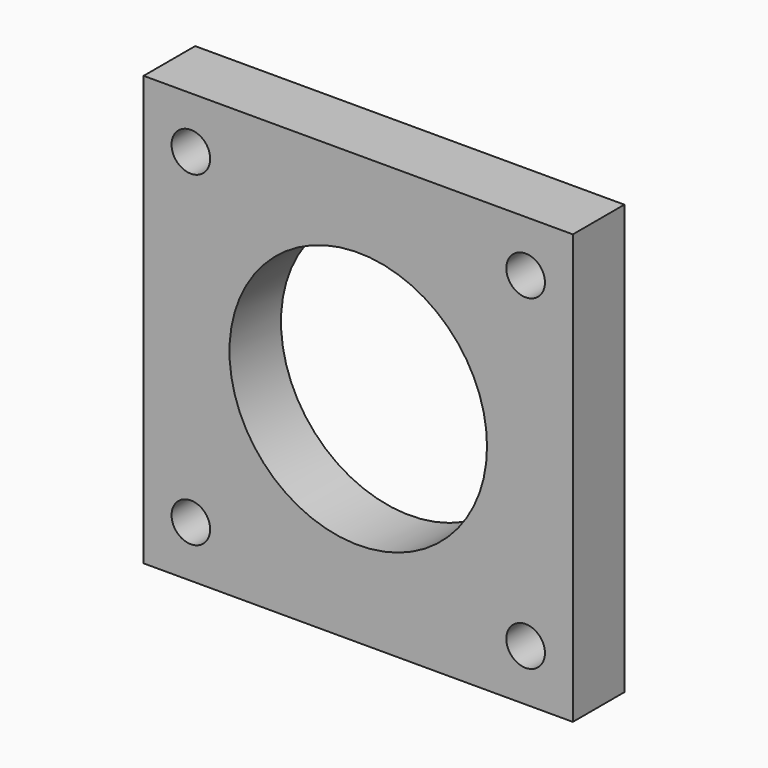
from build123d import *

# Parameters (mm, degrees)
F0_W     = 100
F0_H     = 100
F0_R     = 4.5
F0_R_2   = 30
F1_DEPTH = 15


with BuildPart() as f1:
    # F0 (on Front) → F1 (new body)
    with BuildSketch(Plane.XZ):
        with Locations((39, 6.029217)):
            Rectangle(F0_W, F0_H)
        with Locations((0, -31.970783)):
            Circle(F0_R, mode=Mode.SUBTRACT)
        with Locations((78, -31.970783)):
            Circle(F0_R, mode=Mode.SUBTRACT)
        with Locations((39, 6.029217)):
            Circle(F0_R_2, mode=Mode.SUBTRACT)
        with Locations((0, 44.029217)):
            Circle(F0_R, mode=Mode.SUBTRACT)
        with Locations((78, 44.029217)):
            Circle(F0_R, mode=Mode.SUBTRACT)
    extrude(amount=F1_DEPTH)


solid = f1.part
